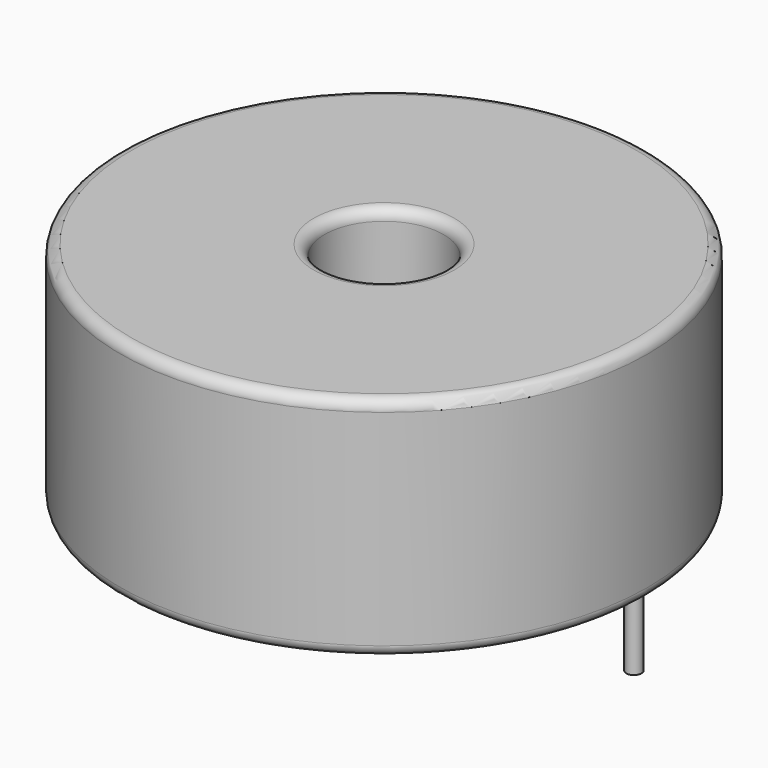
from build123d import *

# Parameters (mm, degrees)
SKETCH001_R       = 0.35
PAD001_DEPTH      = 5.25
PAD001_DEPTH_BACK = 3.5
SKETCH_R          = 12.2
SKETCH_R_2        = 2.75
PAD_DEPTH         = 10.5
FILLET_R          = 0.5


with BuildPart() as pad001:
    # Sketch001 → Pad001 (new body, two sides)
    with BuildSketch(Plane.XY.offset(0.5)) as pad001_sk:
        Circle(SKETCH001_R)
        with Locations((23.1, 0)):
            Circle(SKETCH001_R)
    extrude(amount=PAD001_DEPTH)
    extrude(pad001_sk.sketch, amount=-PAD001_DEPTH_BACK)


with BuildPart() as obj1:
    # Sketch → Pad (new body)
    with BuildSketch(Plane.XY.offset(0.1)):
        with Locations((11.55, 0)):
            Circle(SKETCH_R)
        with Locations((11.55, 0)):
            Circle(SKETCH_R_2, mode=Mode.SUBTRACT)
    extrude(amount=PAD_DEPTH)

    # Fillet
    fillet_edges = [obj1.edges().sort_by_distance(p)[0] for p in [
        (8.8, 0, 10.6),
        (-0.65, 0, 10.6),
        (-0.65, 0, 0.1),
    ]]
    fillet(fillet_edges, radius=FILLET_R)

    # obj1: union Pad001
    add(pad001.part)


solid = obj1.part
